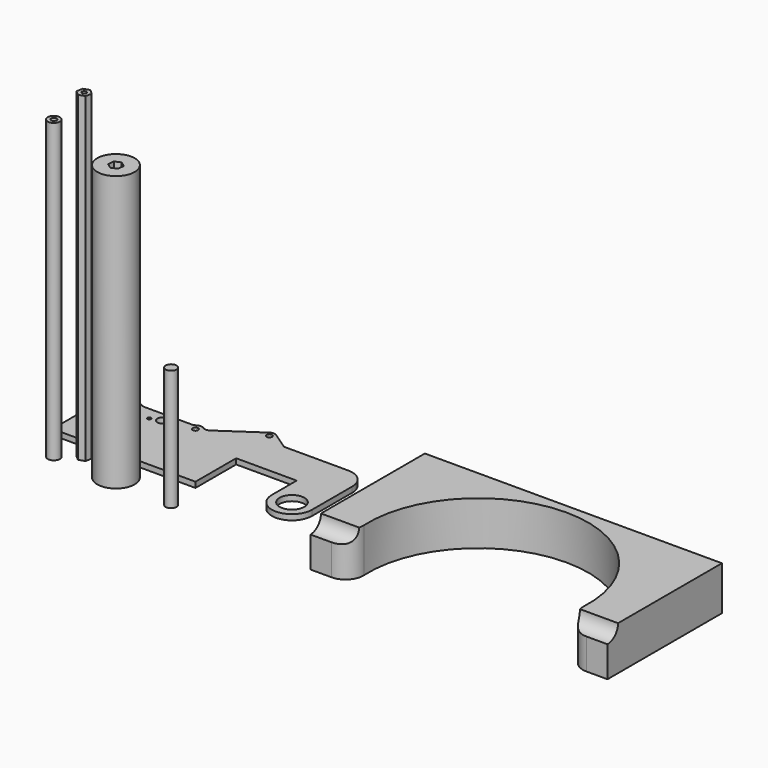
from build123d import *

# Parameters (mm, degrees)
F1_R      = 14.2875
F1_R_2    = 3.175
F1_R_3    = 2
F1_R_4    = 5.9944
F2_DEPTH  = 6.35
F3_R      = 6.985
F3_R_2    = 3.175
F4_DEPTH  = 342.9
F5_R      = 2.5527
F6_DEPTH  = 370.84
F7_R      = 21.59
F8_DEPTH  = 317.5
F10_DEPTH = 50.8
F11_R     = 20.32
F13_DEPTH = 342.9
F14_R     = 6.35
F15_DEPTH = 139.7
F16_R     = 5.08


with BuildPart() as f2:
    # F1 (on Top) → F2 (new body)
    with BuildSketch(Plane.XY):
        with BuildLine():
            Line((-49.9910764957, 62.1962980512), (-63.8297284243, 62.1962980512))
            ThreePointArc((-63.8297284243, 62.1962980512), (-94.8530671804, 53.8699299137), (-74.2244912377, 29.2480329821))
            Line((-74.2244912377, 29.2480329821), (-74.2244912377, -22.9390313281))
            Line((-74.2244912377, -22.9390313281), (90.8755087623, -22.9390313281))
            Line((90.8755087623, -22.9390313281), (90.8755087623, 35.7300707037))
            Line((90.8755087623, 35.7300707037), (160.7255087623, 35.7300707037))
            Line((160.7255087623, 35.7300707037), (160.7255087623, 0))
            ThreePointArc((160.7255087623, 0), (183.9030087623, -23.1775), (207.0805087623, 0))
            Line((207.0805087623, 0), (207.0805087623, 57.9550707037))
            ThreePointArc((207.0805087623, 57.9550707037), (200.5709569742, 73.6705189156), (184.8555087623, 80.1800707037))
            Line((184.8555087623, 80.1800707037), (110.5558629778, 80.1800707037))
            Line((110.5558629778, 80.1800707037), (90.5031153064, 93.7624556725))
            ThreePointArc((90.5031153064, 93.7624556725), (86.9420412896, 94.8549608464), (83.3809672727, 93.7624556725))
            Line((83.3809672727, 93.7624556725), (63.3282196013, 80.1800707037))
            Line((63.3282196013, 80.1800707037), (36.9001390489, 62.1962980512))
            Line((36.9001390489, 62.1962980512), (32.3953867519, 62.1962980512))
            ThreePointArc((32.3953867519, 62.1962980512), (26.7157740891, 64.7362980512), (21.0361614262, 62.1962980512))
            Line((21.0361614262, 62.1962980512), (-38.63185117, 62.1962980512))
            ThreePointArc((-38.63185117, 62.1962980512), (-44.3114638329, 64.7362980512), (-49.9910764957, 62.1962980512))
        make_face()
        with Locations((183.9030087623, 0)):
            Circle(F1_R, mode=Mode.SUBTRACT)
        with Locations((-76.6857422854, 48.1383676345)):
            Circle(F1_R, mode=Mode.SUBTRACT)
        with Locations((-44.3114638329, 57.1162980512)):
            Circle(F1_R_2, mode=Mode.SUBTRACT)
        with Locations((-18.747377767, 47.4084117594)):
            Circle(F1_R_3, mode=Mode.SUBTRACT)
        with Locations((-7.0042270236, 51.6825690866)):
            Circle(F1_R_4, mode=Mode.SUBTRACT)
        with Locations((4.7389237199, 55.9567264137)):
            Circle(F1_R_3, mode=Mode.SUBTRACT)
        with Locations((26.7157740891, 57.1162980512)):
            Circle(F1_R_2, mode=Mode.SUBTRACT)
        with Locations((86.9420412896, 88.5049608464)):
            Circle(F1_R_2, mode=Mode.SUBTRACT)
        with BuildLine():
            Line((-49.9910764957, 62.1962980512), (-63.8297284243, 62.1962980512))
            ThreePointArc((-63.8297284243, 62.1962980512), (-94.8530671804, 53.8699299137), (-74.2244912377, 29.2480329821))
            Line((-74.2244912377, 29.2480329821), (-74.2244912377, -22.9390313281))
            Line((-74.2244912377, -22.9390313281), (90.8755087623, -22.9390313281))
            Line((90.8755087623, -22.9390313281), (90.8755087623, 35.7300707037))
            Line((90.8755087623, 35.7300707037), (160.7255087623, 35.7300707037))
            Line((160.7255087623, 35.7300707037), (160.7255087623, 0))
            ThreePointArc((160.7255087623, 0), (183.9030087623, -23.1775), (207.0805087623, 0))
            Line((207.0805087623, 0), (207.0805087623, 57.9550707037))
            ThreePointArc((207.0805087623, 57.9550707037), (200.5709569742, 73.6705189156), (184.8555087623, 80.1800707037))
            Line((184.8555087623, 80.1800707037), (110.5558629778, 80.1800707037))
            Line((110.5558629778, 80.1800707037), (90.5031153064, 93.7624556725))
            ThreePointArc((90.5031153064, 93.7624556725), (86.9420412896, 94.8549608464), (83.3809672727, 93.7624556725))
            Line((83.3809672727, 93.7624556725), (63.3282196013, 80.1800707037))
            Line((63.3282196013, 80.1800707037), (36.9001390489, 62.1962980512))
            Line((36.9001390489, 62.1962980512), (32.3953867519, 62.1962980512))
            ThreePointArc((32.3953867519, 62.1962980512), (26.7157740891, 64.7362980512), (21.0361614262, 62.1962980512))
            Line((21.0361614262, 62.1962980512), (-38.63185117, 62.1962980512))
            ThreePointArc((-38.63185117, 62.1962980512), (-44.3114638329, 64.7362980512), (-49.9910764957, 62.1962980512))
        make_face()
        with Locations((183.9030087623, 0)):
            Circle(F1_R, mode=Mode.SUBTRACT)
        with Locations((-76.6857422854, 48.1383676345)):
            Circle(F1_R, mode=Mode.SUBTRACT)
        with Locations((-44.3114638329, 57.1162980512)):
            Circle(F1_R_2, mode=Mode.SUBTRACT)
        with Locations((-18.747377767, 47.4084117594)):
            Circle(F1_R_3, mode=Mode.SUBTRACT)
        with Locations((-7.0042270236, 51.6825690866)):
            Circle(F1_R_4, mode=Mode.SUBTRACT)
        with Locations((4.7389237199, 55.9567264137)):
            Circle(F1_R_3, mode=Mode.SUBTRACT)
        with Locations((26.7157740891, 57.1162980512)):
            Circle(F1_R_2, mode=Mode.SUBTRACT)
        with Locations((86.9420412896, 88.5049608464)):
            Circle(F1_R_2, mode=Mode.SUBTRACT)
        with BuildLine():
            Line((-49.9910764957, 62.1962980512), (-63.8297284243, 62.1962980512))
            ThreePointArc((-63.8297284243, 62.1962980512), (-94.8530671804, 53.8699299137), (-74.2244912377, 29.2480329821))
            Line((-74.2244912377, 29.2480329821), (-74.2244912377, -22.9390313281))
            Line((-74.2244912377, -22.9390313281), (90.8755087623, -22.9390313281))
            Line((90.8755087623, -22.9390313281), (90.8755087623, 35.7300707037))
            Line((90.8755087623, 35.7300707037), (160.7255087623, 35.7300707037))
            Line((160.7255087623, 35.7300707037), (160.7255087623, 0))
            ThreePointArc((160.7255087623, 0), (183.9030087623, -23.1775), (207.0805087623, 0))
            Line((207.0805087623, 0), (207.0805087623, 57.9550707037))
            ThreePointArc((207.0805087623, 57.9550707037), (200.5709569742, 73.6705189156), (184.8555087623, 80.1800707037))
            Line((184.8555087623, 80.1800707037), (110.5558629778, 80.1800707037))
            Line((110.5558629778, 80.1800707037), (90.5031153064, 93.7624556725))
            ThreePointArc((90.5031153064, 93.7624556725), (86.9420412896, 94.8549608464), (83.3809672727, 93.7624556725))
            Line((83.3809672727, 93.7624556725), (63.3282196013, 80.1800707037))
            Line((63.3282196013, 80.1800707037), (36.9001390489, 62.1962980512))
            Line((36.9001390489, 62.1962980512), (32.3953867519, 62.1962980512))
            ThreePointArc((32.3953867519, 62.1962980512), (26.7157740891, 64.7362980512), (21.0361614262, 62.1962980512))
            Line((21.0361614262, 62.1962980512), (-38.63185117, 62.1962980512))
            ThreePointArc((-38.63185117, 62.1962980512), (-44.3114638329, 64.7362980512), (-49.9910764957, 62.1962980512))
        make_face()
        with Locations((183.9030087623, 0)):
            Circle(F1_R, mode=Mode.SUBTRACT)
        with Locations((-76.6857422854, 48.1383676345)):
            Circle(F1_R, mode=Mode.SUBTRACT)
        with Locations((-44.3114638329, 57.1162980512)):
            Circle(F1_R_2, mode=Mode.SUBTRACT)
        with Locations((-18.747377767, 47.4084117594)):
            Circle(F1_R_3, mode=Mode.SUBTRACT)
        with Locations((-7.0042270236, 51.6825690866)):
            Circle(F1_R_4, mode=Mode.SUBTRACT)
        with Locations((4.7389237199, 55.9567264137)):
            Circle(F1_R_3, mode=Mode.SUBTRACT)
        with Locations((26.7157740891, 57.1162980512)):
            Circle(F1_R_2, mode=Mode.SUBTRACT)
        with Locations((86.9420412896, 88.5049608464)):
            Circle(F1_R_2, mode=Mode.SUBTRACT)
    extrude(amount=F2_DEPTH)

    # F16
    f16_edges = [f2.edges().sort_by_distance(p)[0] for p in [
        (-38.631851, 62.196298, 3.175),
        (21.036161, 62.196298, 3.175),
        (32.395387, 62.196298, 3.175),
        (36.900139, 62.196298, 3.175),
        (-49.991076, 62.196298, 3.175),
        (-63.829728, 62.196298, 3.175),
        (-74.224491, 29.248033, 3.175),
    ]]
    fillet(f16_edges, radius=F16_R)


with BuildPart() as f4:
    # F3 (on Top) → F4 (new body)
    with BuildSketch(Plane.XY):
        with Locations((-46.784657985, -55.2431158721)):
            Circle(F3_R)
        with Locations((-46.784657985, -55.2431158721)):
            Circle(F3_R_2, mode=Mode.SUBTRACT)
    extrude(amount=F4_DEPTH)


with BuildPart() as f6:
    # F5 (on Top) → F6 (new body)
    with BuildSketch(Plane.XY):
        Polygon((-26.2436224322, -46.2252245101), (-19.3046554622, -43.8558214793), (-17.8871351937, -36.6617982918), (-23.4085818952, -31.8371781352), (-30.3475488653, -34.206581166), (-31.7650691337, -41.4006043535), align=None)
        with Locations((-24.8261021637, -39.0312013227)):
            Circle(F5_R, mode=Mode.SUBTRACT)
    extrude(amount=F6_DEPTH)


with BuildPart() as f8:
    # F7 (on Top) → F8 (new body)
    with BuildSketch(Plane.XY):
        with Locations((22.1902159048, -51.7927211475)):
            Circle(F7_R)
        Polygon((28.8987125921, -48.8330918581), (28.1075783988, -56.1226350552), (21.3990817115, -59.0822643445), (15.4817192176, -54.7523504368), (16.2728534109, -47.4628072397), (22.9813500981, -44.5031779504), align=None, mode=Mode.SUBTRACT)
    extrude(amount=F8_DEPTH)


with BuildPart() as f10:
    # F9 (on Top) → F10 (new body)
    with BuildSketch(Plane.XY):
        with BuildLine():
            Line((614.152808857, 82.55), (271.252808857, 82.55))
            Line((271.252808857, 82.55), (271.252808857, -82.55))
            Line((271.252808857, -82.55), (318.8143251307, -82.55))
            ThreePointArc((318.8143251307, -82.55), (442.702808857, 72.39), (566.5912925833, -82.55))
            Line((566.5912925833, -82.55), (614.152808857, -82.55))
            Line((614.152808857, -82.55), (614.152808857, 82.55))
        make_face()
    extrude(amount=F10_DEPTH)

    # F11
    f11_edges = [f10.edges().sort_by_distance(p)[0] for p in [
        (318.814325, -82.55, 25.4),
        (566.591293, -82.55, 25.4),
    ]]
    fillet(f11_edges, radius=F11_R)

    # F12 (on face) → F13 (cut, through all)
    with BuildSketch(Plane.YZ.offset(614.152808857)):
        with BuildLine():
            Line((-82.55, 50.8), (-82.55, 35.56))
            ThreePointArc((-82.55, 35.56), (-71.7736926547, 40.0236926547), (-67.31, 50.8))
            Line((-67.31, 50.8), (-82.55, 50.8))
        make_face()
    extrude(amount=-F13_DEPTH, mode=Mode.SUBTRACT)


with BuildPart() as f15:
    # F14 (on Top) → F15 (new body)
    with BuildSketch(Plane.XY):
        with Locations((94.4636166096, -62.587916851)):
            Circle(F14_R)
    extrude(amount=F15_DEPTH)


solid = Compound([f2.part, f4.part, f6.part, f8.part, f10.part, f15.part])
